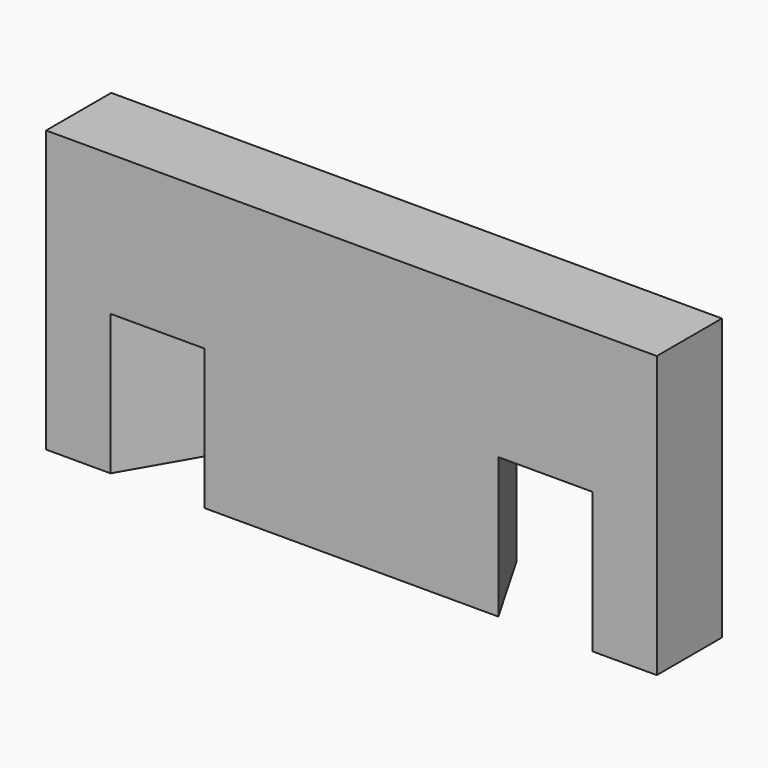
from build123d import *

# Parameters (mm, degrees)
F0_W     = 15
F0_H     = 2
F1_DEPTH = 6.9
F3_DEPTH = 3.45


with BuildPart() as f1:
    # F0 (on Top) → F1 (new body)
    with BuildSketch(Plane.XY):
        with Locations((0, 7.25)):
            Rectangle(F0_W, F0_H)
    extrude(amount=F1_DEPTH)

    # F2 (on Top) → F3 (cut)
    with BuildSketch(Plane.XY):
        Polygon((-4.76314, 8.25), (-5.91784, 6.25), (-3.608439, 6.25), (-2.453739, 8.25), align=None)
        Polygon((3.608439, 6.25), (5.91784, 6.25), (4.76314, 8.25), (2.453739, 8.25), align=None)
    extrude(amount=F3_DEPTH, mode=Mode.SUBTRACT)


solid = f1.part
